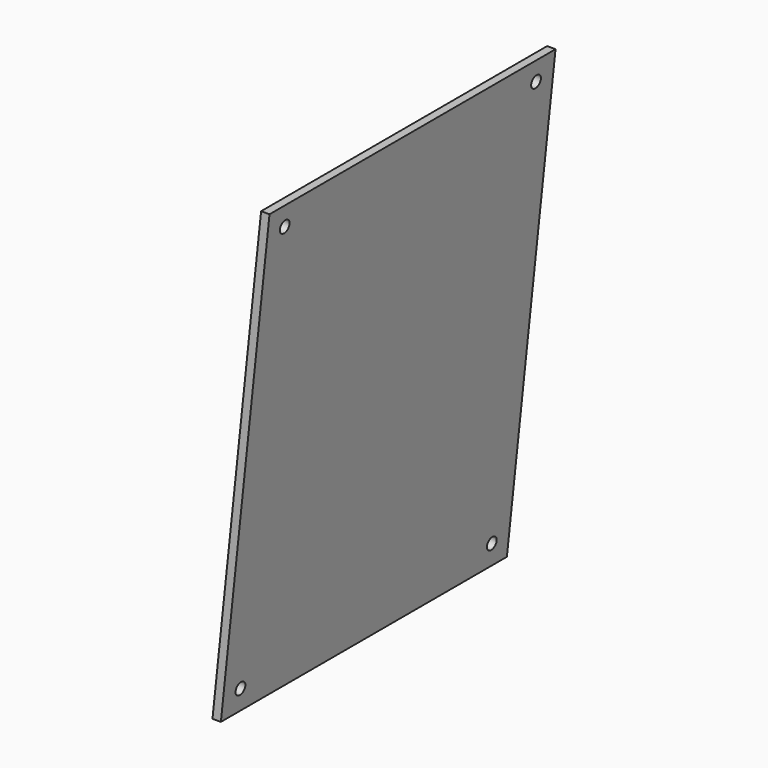
from build123d import *

# Parameters (mm, degrees)
CYLINDER021_R               = 1.6
CYLINDER021_DEPTH           = 4
CYLINDER021_PLACEMENT_ANGLE = 96
CYLINDER022_R               = 1.6
CYLINDER022_DEPTH           = 4
CYLINDER022_PLACEMENT_ANGLE = 96
CYLINDER023_R               = 1.6
CYLINDER023_DEPTH           = 4
CYLINDER023_PLACEMENT_ANGLE = 96
CYLINDER020_R               = 1.6
CYLINDER020_DEPTH           = 4
CYLINDER020_PLACEMENT_ANGLE = 96
PAD_DEPTH                   = 94


with BuildPart() as loch2:
    # Cylinder021 → Cylinder021 (new body)
    with BuildSketch(Plane.XY):
        Circle(CYLINDER021_R)
    extrude(amount=CYLINDER021_DEPTH)


with BuildPart() as loch2_1:
    # Cylinder021 placement: moved
    add(loch2.part.moved(Location((10, 88.3, 116.5))).rotate(Axis((10, 88.3, 116.5), (0, 1, 0)), CYLINDER021_PLACEMENT_ANGLE))


with BuildPart() as loch3:
    # Cylinder022 → Cylinder022 (new body)
    with BuildSketch(Plane.XY):
        Circle(CYLINDER022_R)
    extrude(amount=CYLINDER022_DEPTH)


with BuildPart() as loch3_1:
    # Cylinder022 placement: moved
    add(loch3.part.moved(Location((-2.3, 88.3, 5.9))).rotate(Axis((-2.3, 88.3, 5.9), (0, 1, 0)), CYLINDER022_PLACEMENT_ANGLE))


with BuildPart() as loch4:
    # Cylinder023 → Cylinder023 (new body)
    with BuildSketch(Plane.XY):
        Circle(CYLINDER023_R)
    extrude(amount=CYLINDER023_DEPTH)


with BuildPart() as loch4_1:
    # Cylinder023 placement: moved
    add(loch4.part.moved(Location((10, 5.7, 116.5))).rotate(Axis((10, 5.7, 116.5), (0, 1, 0)), CYLINDER023_PLACEMENT_ANGLE))


with BuildPart() as l_cher:
    # Cylinder020 → Cylinder020 (new body)
    with BuildSketch(Plane.XY):
        Circle(CYLINDER020_R)
    extrude(amount=CYLINDER020_DEPTH)


with BuildPart() as l_cher_1:
    # Cylinder020 placement: moved
    add(l_cher.part.moved(Location((-2.3, 5.7, 5.9))).rotate(Axis((-2.3, 5.7, 5.9), (0, 1, 0)), CYLINDER020_PLACEMENT_ANGLE))

    # Fusion013: union Loch2, Loch3, Loch4
    add(loch2_1.part)
    add(loch3_1.part)
    add(loch4_1.part)


with BuildPart() as obj1:
    # Sketch003 → Pad (new body)
    with BuildSketch(Plane.XZ):
        Polygon((0, 0), (12.786083, 121.651457), (10.576083, 121.651457), (-2.21, 0), align=None)
    extrude(amount=-PAD_DEPTH)

    add(l_cher_1.part, mode=Mode.SUBTRACT)


solid = obj1.part
